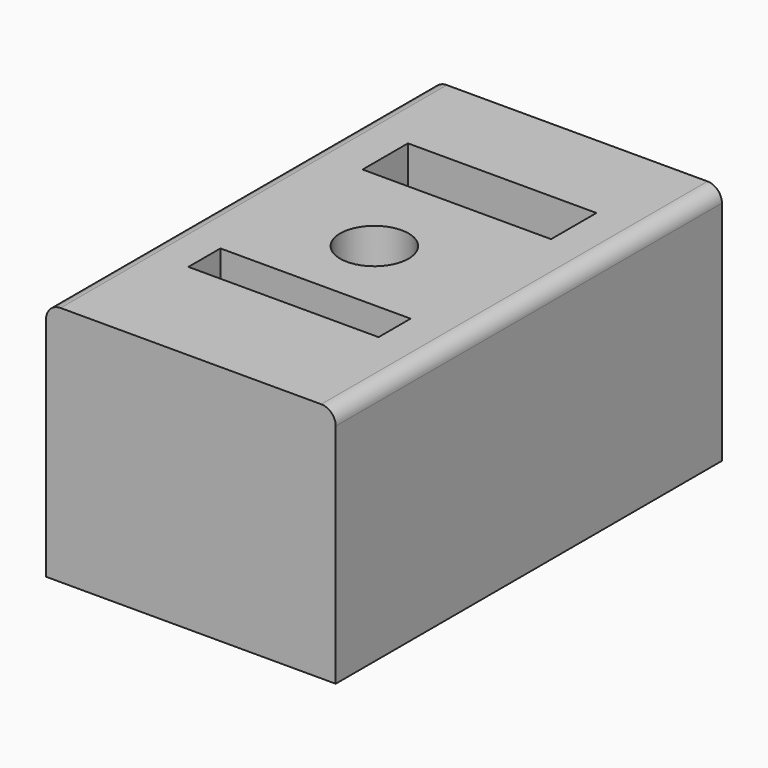
from build123d import *

# Parameters (mm, degrees)
F0_W     = 30
F0_H     = 50
F1_DEPTH = 25
F2_W     = 19.697615
F2_H     = 4.146867
F2_W_2   = 19.52483
F2_H_2   = 5.874727
F3_DEPTH = 10
F4_DEPTH = 10
F5_DEPTH = 25
F6_DEPTH = 25
F7_R     = 1.5
F2_R     = 3.544564
F8_DEPTH = 25


with BuildPart() as f1:
    # F0 (on Top) → F1 (new body)
    with BuildSketch(Plane.XY):
        with Locations((40.103809, 0.678835)):
            Rectangle(F0_W, F0_H)
    extrude(amount=F1_DEPTH)

    # F2 (on face) → F3 (join)
    with BuildSketch(Plane.XY.offset(25)):
        with Locations((40.032959, -10.171571)):
            Rectangle(F2_W, F2_H)
        with Locations((40.292139, 12.808978)):
            Rectangle(F2_W_2, F2_H_2)
    extrude(amount=-F3_DEPTH)

    # F2 (on face) → F4 (join)
    with BuildSketch(Plane.XY.offset(25)):
        with Locations((40.292139, 12.808978)):
            Rectangle(F2_W_2, F2_H_2)
        with Locations((40.032959, -10.171571)):
            Rectangle(F2_W, F2_H)
    extrude(amount=-F4_DEPTH)

    # F2 (on face) → F5 (cut)
    with BuildSketch(Plane.XY.offset(25)):
        with Locations((40.292139, 12.808978)):
            Rectangle(F2_W_2, F2_H_2)
    extrude(amount=-F5_DEPTH, mode=Mode.SUBTRACT)

    # F2 (on face) → F6 (cut)
    with BuildSketch(Plane.XY.offset(25)):
        with Locations((40.032959, -10.171571)):
            Rectangle(F2_W, F2_H)
    extrude(amount=-F6_DEPTH, mode=Mode.SUBTRACT)

    # F7
    f7_edges = [f1.edges().sort_by_distance(p)[0] for p in [
        (55.103809, 0.678835, 25),
        (25.103809, 0.678835, 25),
    ]]
    fillet(f7_edges, radius=F7_R)

    # F2 (on face) → F8 (cut)
    with BuildSketch(Plane.XY.offset(25)):
        with Locations((39.648701, 0)):
            Circle(F2_R)
    extrude(amount=-F8_DEPTH, mode=Mode.SUBTRACT)


solid = f1.part
